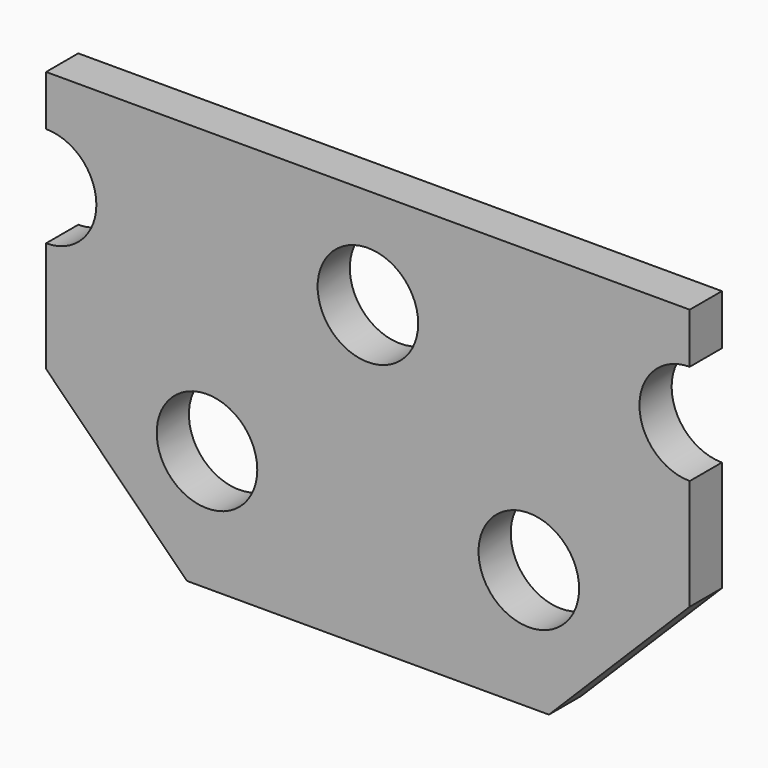
from build123d import *

# Parameters (mm, degrees)
F0_W     = 32
F0_H     = 20
F1_DEPTH = 2
F2_SIZE  = 7
F3_R     = 2.5
F4_DEPTH = 25


with BuildPart() as f1:
    # F0 (on Front) → F1 (new body)
    with BuildSketch(Plane.XZ):
        Rectangle(F0_W, F0_H)
    extrude(amount=F1_DEPTH)

    # F2
    f2_edges = [f1.edges().sort_by_distance(p)[0] for p in [
        (-16, -1, -10),
        (16, -1, -10),
    ]]
    chamfer(f2_edges, length=F2_SIZE)

    # F3 (on face) → F4 (cut)
    with BuildSketch(Plane.XZ.offset(2)):
        with BuildLine():
            ThreePointArc((-16, 2.5), (-14.232233047, 3.232233047), (-13.5, 5))
            ThreePointArc((-13.5, 5), (-14.232233047, 6.767766953), (-16, 7.5))
            Line((-16, 7.5), (-16, 2.5))
        make_face()
        with Locations((0, 5)):
            Circle(F3_R)
        with Locations((-8, -4)):
            Circle(F3_R)
        with Locations((8, -4)):
            Circle(F3_R)
        with BuildLine():
            Line((16, 2.5), (16, 7.5))
            ThreePointArc((16, 7.5), (13.5, 5), (16, 2.5))
        make_face()
    extrude(amount=-F4_DEPTH, mode=Mode.SUBTRACT)


solid = f1.part
